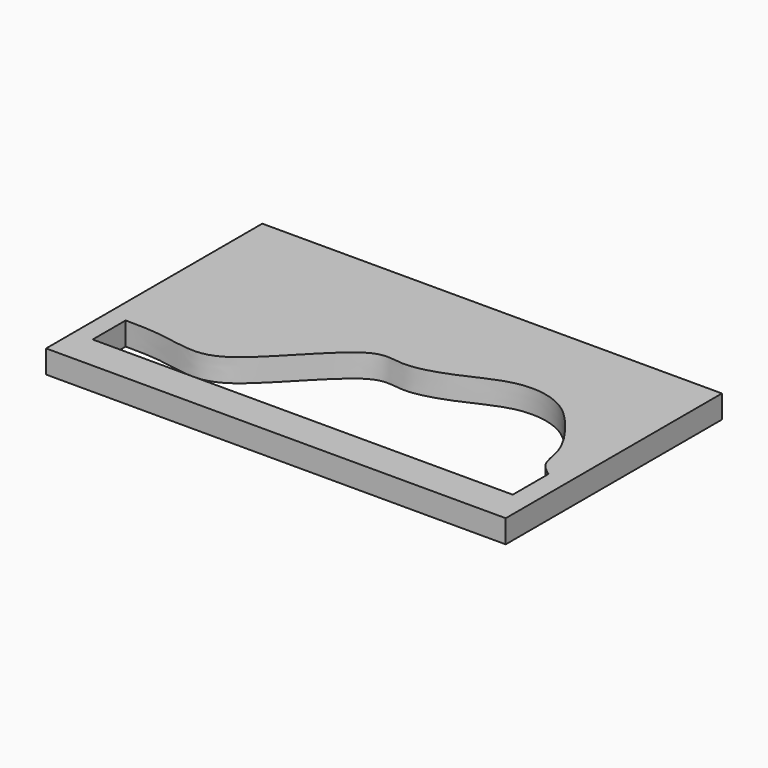
from build123d import *

# Parameters (mm, degrees)
F0_W     = 172.3292320967
F0_H     = 101.3144366443
F1_DEPTH = 8.636


with BuildPart() as f1:
    # F0 (on Top) → F1 (new body)
    with BuildSketch(Plane.XY):
        with Locations((-9.4799101353, -2.0515378565)):
            Rectangle(F0_W, F0_H)
        with BuildLine():
            Line((-88.5317772627, -39.7682860494), (-88.5317772627, -24.3028402328))
            add(Edge.make_bspline(
                [(-88.5317772627, -24.3028402328), (-84.1154674532, -24.3301939838), (-75.3150467023, -24.3847020523), (-61.8275793588, -27.7993877149), (-47.0761740058, -24.9491878227), (-20.8786523411, 9.1613433382), (-7.8521832723, 3.3505598391), (9.9191664694, 9.0354925092), (25.9001660214, 17.9384215056), (43.3933649001, 15.3632753855), (53.6525453865, 4.5014515518), (62.7657621664, -8.3734717511), (63.0711616447, -18.6906526874), (67.1167016184, -21.677176691), (68.9632594585, -23.0403542519)],
                knots=[0, 0, 0, 0, 0.0779449177, 0.1553215468, 0.2372775798, 0.3714428612, 0.4446131703, 0.5343926631, 0.6266231138, 0.7120333092, 0.7942253488, 0.8787074423, 0.9446368779, 1, 1, 1, 1], degree=3))
            Line((68.9632594585, -23.0403542519), (68.9632594585, -39.7682860494))
            Line((68.9632594585, -39.7682860494), (-88.5317772627, -39.7682860494))
        make_face(mode=Mode.SUBTRACT)
    extrude(amount=F1_DEPTH)


solid = f1.part
